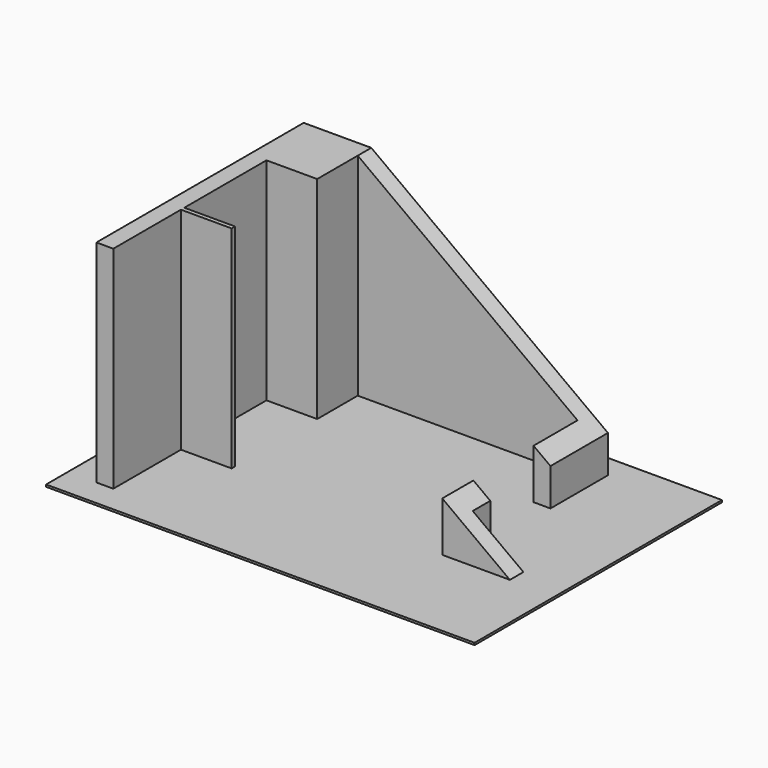
from build123d import *

# Parameters (mm, degrees)
F2_DEPTH = 2500
F1_W     = 5069.640577
F1_H     = 3657.9974
F3_DEPTH = 25
F4_W     = 200
F4_H     = 890
F4_H_2   = 1065
F5_DEPTH = 2500
F7_DEPTH = 3336.374091


with BuildPart() as f2:
    # F0 (on Top) → F2 (new body)
    with BuildSketch(Plane.XY):
        Polygon((-200, 0), (0, 0), (0, 1000), (600, 1000), (600, 1050), (0, 1050), (0, 2265), (600, 2265), (600, 2865), (3200, 2865), (3200, 865), (4000, 865), (4000, 0), (4200, 0), (4200, 1065), (3400, 1065), (3400, 3065), (-200, 3065), align=None)
    extrude(amount=F2_DEPTH)

    # F1 (on Top) → F3 (join)
    with BuildSketch(Plane.XY):
        with Locations((1996.638089, 1507.374391)):
            Rectangle(F1_W, F1_H)
    extrude(amount=-F3_DEPTH)

    # F4 (on face) → F5 (cut, through all)
    with BuildSketch(Plane.XY.offset(2500)):
        with Locations((3300, 1770)):
            Rectangle(F4_W, F4_H)
        with Locations((4100, 532.5)):
            Rectangle(F4_W, F4_H_2)
    extrude(amount=-F5_DEPTH, mode=Mode.SUBTRACT)

    # F6 (on face) → F7 (cut, through all)
    with BuildSketch(Plane.XZ):
        Polygon((4000, 2500), (600, 2500), (4000, 0), align=None)
    extrude(amount=-F7_DEPTH, mode=Mode.SUBTRACT)


solid = f2.part
